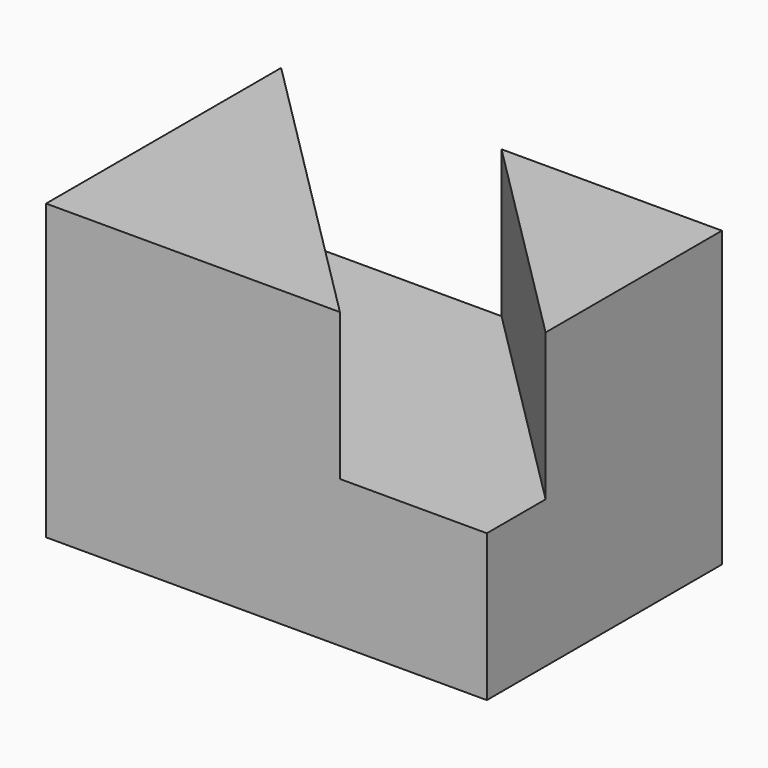
from build123d import *

# Parameters (mm, degrees)
F0_W          = 38.1
F0_H          = 25.4
F1_DEPTH      = 12.7
F3_DEPTH      = 25.4
F4_W          = 38.1
F4_H          = 12.7
F5_DEPTH      = 12.7
F5_DEPTH_BACK = 12.7


with BuildPart() as f1:
    # F0 (on Front) → F1 (new body, symmetric)
    with BuildSketch(Plane.XZ):
        with Locations((-19.05, 12.7)):
            Rectangle(F0_W, F0_H)
    extrude(amount=F1_DEPTH, both=True)

    # F2 (on Top) → F3 (cut)
    with BuildSketch(Plane.XY):
        Polygon((-19.05, 12.7), (-38.1, 12.7), (-12.7, -12.7), (0, -12.7), (0, -6.35), align=None)
    extrude(amount=F3_DEPTH, mode=Mode.SUBTRACT)

    # F4 (on Front) → F5 (join, two sides)
    with BuildSketch(Plane.XZ) as f5_sk:
        with Locations((-19.05, 6.35)):
            Rectangle(F4_W, F4_H)
    extrude(amount=-F5_DEPTH)
    extrude(f5_sk.sketch, amount=F5_DEPTH_BACK)


solid = f1.part
